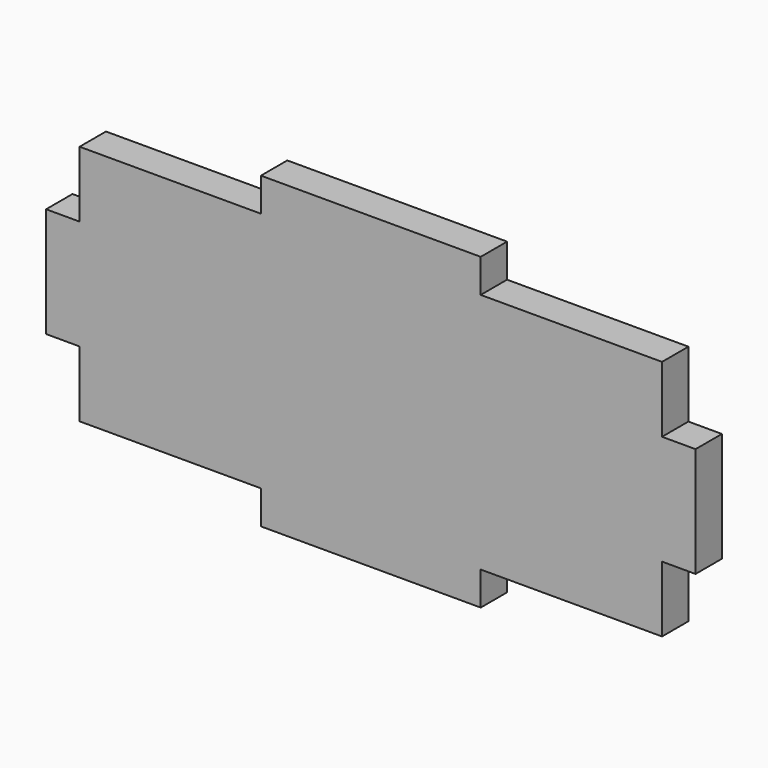
from build123d import *

# Parameters (mm, degrees)
F0_W     = 20
F0_H     = 3.05
F0_W_2   = 3.05
F0_H_2   = 10
F1_DEPTH = 3


with BuildPart() as f1:
    # F0 (on Front) → F1 (new body)
    with BuildSketch(Plane.XZ):
        Polygon((10, -11), (26.5, -11), (26.5, -5), (26.5, 5), (26.5, 11), (10, 11), (-10, 11), (-26.5, 11), (-26.5, 5), (-26.5, -5), (-26.5, -11), (-10, -11), align=None)
        with Locations((0, -12.525)):
            Rectangle(F0_W, F0_H)
        with Locations((28.025, 0)):
            Rectangle(F0_W_2, F0_H_2)
        with Locations((-28.025, 0)):
            Rectangle(F0_W_2, F0_H_2)
        with Locations((0, 12.525)):
            Rectangle(F0_W, F0_H)
    extrude(amount=F1_DEPTH)


solid = f1.part
